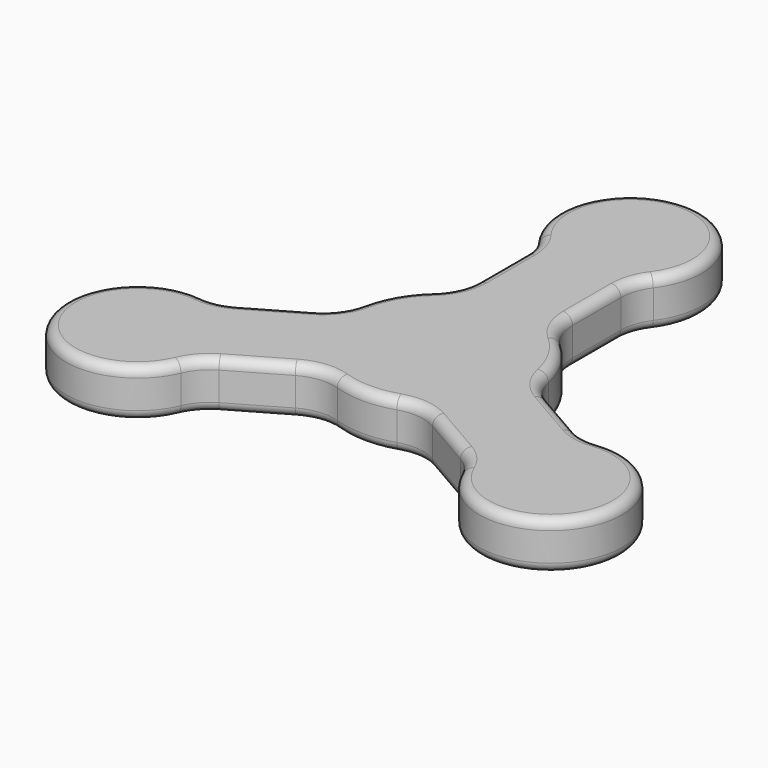
from build123d import *

# Parameters (mm, degrees)
F1_DEPTH = 6.35
F2_R     = 1.27


with BuildPart() as f1:
    # F0 (on Top) → F1 (new body)
    with BuildSketch(Plane.XY):
        with BuildLine():
            ThreePointArc((6.35, 22.225), (6.675861, 24.233046), (7.62, 26.035))
            ThreePointArc((7.62, 26.035), (0, 41.275), (-7.62, 26.035))
            ThreePointArc((-7.62, 26.035), (-6.675861, 24.233046), (-6.35, 22.225))
            Line((-6.35, 22.225), (-6.35, 14.199032))
            ThreePointArc((-6.35, 14.199032), (-6.90327, 11.606655), (-8.466667, 9.466021))
            ThreePointArc((-8.466667, 9.466021), (-10.998523, 6.35), (-12.431148, 2.599338))
            ThreePointArc((-12.431148, 2.599338), (-13.503293, 0.175079), (-15.471722, -1.600255))
            Line((-15.471722, -1.600255), (-22.422415, -5.613239))
            ThreePointArc((-22.422415, -5.613239), (-24.324364, -6.335058), (-26.356971, -6.418386))
            ThreePointArc((-26.356971, -6.418386), (-35.745199, -20.6375), (-18.736971, -19.616614))
            ThreePointArc((-18.736971, -19.616614), (-17.648503, -17.897988), (-16.072415, -16.611761))
            Line((-16.072415, -16.611761), (-9.121722, -12.598777))
            ThreePointArc((-9.121722, -12.598777), (-6.600023, -11.781734), (-3.964481, -12.065359))
            ThreePointArc((-3.964481, -12.065359), (0, -12.7), (3.964481, -12.065359))
            ThreePointArc((3.964481, -12.065359), (6.600023, -11.781734), (9.121722, -12.598777))
            Line((9.121722, -12.598777), (16.072415, -16.611761))
            ThreePointArc((16.072415, -16.611761), (17.648503, -17.897988), (18.736971, -19.616614))
            ThreePointArc((18.736971, -19.616614), (35.745199, -20.6375), (26.356971, -6.418386))
            ThreePointArc((26.356971, -6.418386), (24.324364, -6.335058), (22.422414, -5.613239))
            Line((22.422414, -5.613239), (15.471722, -1.600255))
            ThreePointArc((15.471722, -1.600255), (13.503293, 0.175079), (12.431148, 2.599338))
            ThreePointArc((12.431148, 2.599338), (10.998523, 6.35), (8.466667, 9.466021))
            ThreePointArc((8.466667, 9.466021), (6.90327, 11.606655), (6.35, 14.199032))
            Line((6.35, 14.199032), (6.35, 22.225))
        make_face()
    extrude(amount=F1_DEPTH)

    # F2
    f2_edges = [f1.edges().sort_by_distance(p)[0] for p in [
        (-35.745199, -20.6375, 6.35),
        (-35.745199, -20.6375, 0),
    ]]
    fillet(f2_edges, radius=F2_R)


solid = f1.part
